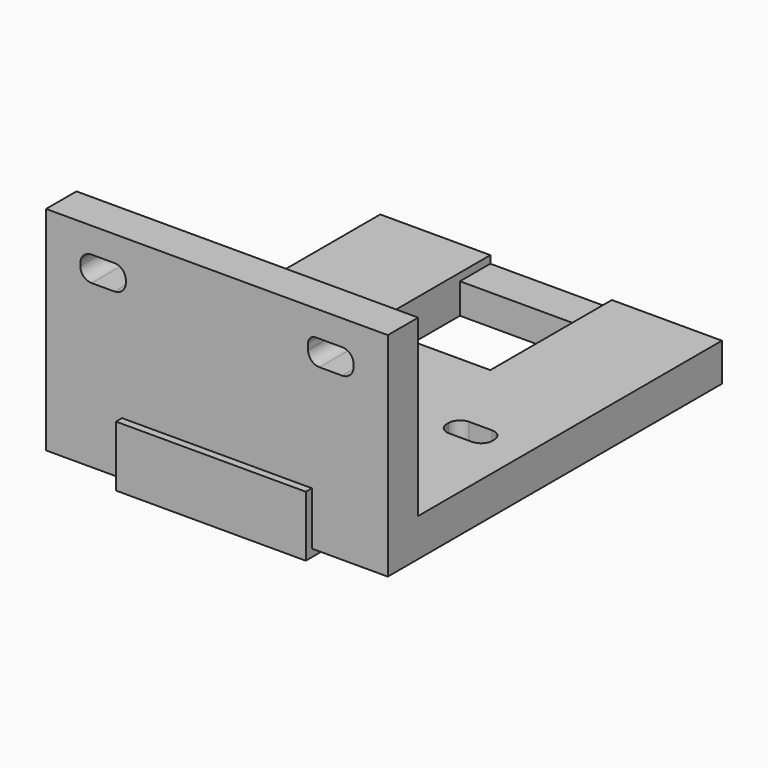
from build123d import *

# Parameters (mm, degrees)
BOX016_W      = 6
BOX016_H      = 10
BOX016_DEPTH  = 3.3
FILLET001_R   = 1.5
BOX013_W      = 6
BOX013_H      = 3.3
BOX013_DEPTH  = 10
FILLET003_R   = 1.5
BOX015_W      = 6
BOX015_H      = 10
BOX015_DEPTH  = 3.3
FILLET002_1_R = 1.5
FILLET002_2_R = 1
BOX012_W      = 16
BOX012_H      = 25
BOX012_DEPTH  = 6
BOX017_W      = 45
BOX017_H      = 50
BOX017_DEPTH  = 23
BOX014_W      = 6
BOX014_H      = 3.3
BOX014_DEPTH  = 10
FILLET_R      = 1.5
BOX009_W      = 16
BOX009_H      = 50
BOX009_DEPTH  = 4
BOX_W         = 45
BOX_H         = 55
BOX_DEPTH     = 28
BOX007_W      = 25
BOX007_H      = 8
BOX007_DEPTH  = 8


with BuildPart() as fillet001:
    # Box016 → Box016 (new body)
    with BuildSketch(Plane(origin=(-18, 0, 21.35), x_dir=(1, 0, 0), z_dir=(0, 0, 1))):
        with Locations((3, 5)):
            Rectangle(BOX016_W, BOX016_H)
    extrude(amount=BOX016_DEPTH)

    # Fillet001
    fillet001_edges = [fillet001.edges().sort_by_distance(p)[0] for p in [
        (-18, 5, 24.65),
        (-18, 5, 21.35),
        (-12, 5, 24.65),
        (-12, 5, 21.35),
    ]]
    fillet(fillet001_edges, radius=FILLET001_R)


with BuildPart() as fillet003:
    # Box013 → Box013 (new body)
    with BuildSketch(Plane(origin=(12, 21.35, 0), x_dir=(1, 0, 0), z_dir=(0, 0, 1))):
        with Locations((3, 1.65)):
            Rectangle(BOX013_W, BOX013_H)
    extrude(amount=BOX013_DEPTH)

    # Fillet003
    fillet003_edges = [fillet003.edges().sort_by_distance(p)[0] for p in [
        (12, 21.35, 5),
        (12, 24.65, 5),
        (18, 21.35, 5),
        (18, 24.65, 5),
    ]]
    fillet(fillet003_edges, radius=FILLET003_R)


with BuildPart() as fillet002:
    # Box015 → Box015 (new body)
    with BuildSketch(Plane(origin=(12, 0, 21.35), x_dir=(1, 0, 0), z_dir=(0, 0, 1))):
        with Locations((3, 5)):
            Rectangle(BOX015_W, BOX015_H)
    extrude(amount=BOX015_DEPTH)

    # Fillet002 1
    fillet002_1_edges = [fillet002.edges().sort_by_distance(p)[0] for p in [
        (12, 5, 21.35),
        (18, 5, 24.65),
        (18, 5, 21.35),
    ]]
    fillet(fillet002_1_edges, radius=FILLET002_1_R)

    # Fillet002 2
    fillet002_2_edges = [fillet002.edges().sort_by_distance(p)[0] for p in [
        (12, 5, 24.65),
    ]]
    fillet(fillet002_2_edges, radius=FILLET002_2_R)


with BuildPart() as box012:
    # Box012 → Box012 (new body)
    with BuildSketch(Plane(origin=(-8, 35, 4), x_dir=(1, 0, 0), z_dir=(0, 0, 1))):
        with Locations((8, 12.5)):
            Rectangle(BOX012_W, BOX012_H)
    extrude(amount=BOX012_DEPTH)


with BuildPart() as box017:
    # Box017 → Box017 (new body)
    with BuildSketch(Plane(origin=(-22.5, 5, 5), x_dir=(1, 0, 0), z_dir=(0, 0, 1))):
        with Locations((22.5, 25)):
            Rectangle(BOX017_W, BOX017_H)
    extrude(amount=BOX017_DEPTH)


with BuildPart() as fillet_body:
    # Box014 → Box014 (new body)
    with BuildSketch(Plane(origin=(-18, 21.35, 0), x_dir=(1, 0, 0), z_dir=(0, 0, 1))):
        with Locations((3, 1.65)):
            Rectangle(BOX014_W, BOX014_H)
    extrude(amount=BOX014_DEPTH)

    # Fillet
    fillet_edges = [fillet_body.edges().sort_by_distance(p)[0] for p in [
        (-18, 21.35, 5),
        (-18, 24.65, 5),
        (-12, 21.35, 5),
        (-12, 24.65, 5),
    ]]
    fillet(fillet_edges, radius=FILLET_R)


with BuildPart() as fusion001:
    # Box009 → Box009 (new body)
    with BuildSketch(Plane(origin=(-8, 0, 0), x_dir=(1, 0, 0), z_dir=(0, 0, 1))):
        with Locations((8, 25)):
            Rectangle(BOX009_W, BOX009_H)
    extrude(amount=BOX009_DEPTH)

    # Fusion001: union Fillet001, Fillet003, Fillet002, Box012, Box017, Fillet body
    add(fillet001.part)
    add(fillet003.part)
    add(fillet002.part)
    add(box012.part)
    add(box017.part)
    add(fillet_body.part)


with BuildPart() as box:
    # Box → Box (new body)
    with BuildSketch(Plane(origin=(-22.5, 0, 0), x_dir=(1, 0, 0), z_dir=(0, 0, 1))):
        with Locations((22.5, 27.5)):
            Rectangle(BOX_W, BOX_H)
    extrude(amount=BOX_DEPTH)


with BuildPart() as cut:
    # Box007 → Box007 (new body)
    with BuildSketch(Plane(origin=(-12.5, -1, -1), x_dir=(1, 0, 0), z_dir=(0, 0, 1))):
        with Locations((12.5, 4)):
            Rectangle(BOX007_W, BOX007_H)
    extrude(amount=BOX007_DEPTH)

    # Fusion: union Box
    add(box.part)

    # Cut: cut Fusion001
    add(fusion001.part, mode=Mode.SUBTRACT)


solid = cut.part
